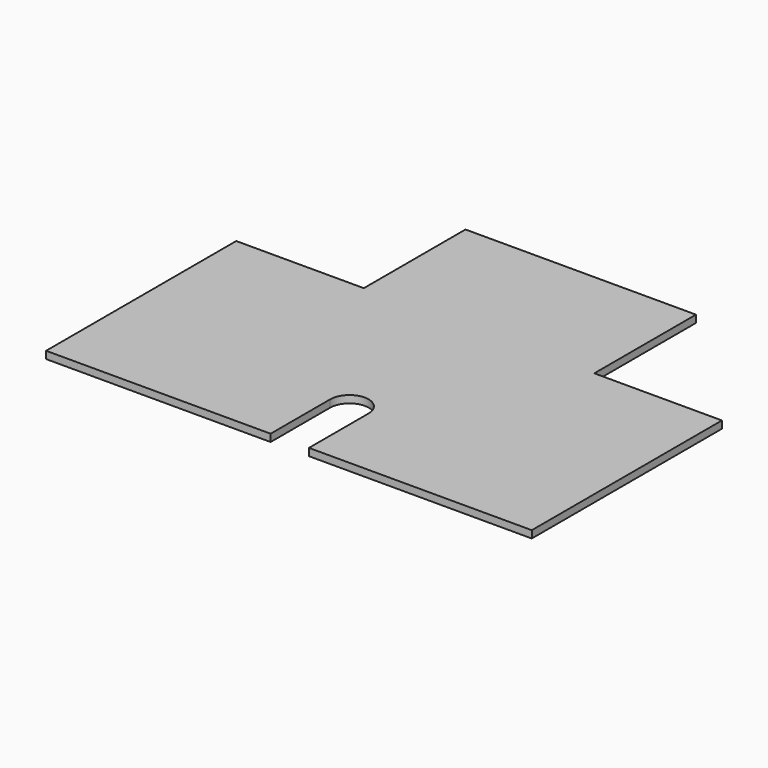
from build123d import *

# Parameters (mm, degrees)
F1_DEPTH = 1.27


with BuildPart() as f1:
    # F0 (on Top) → F1 (new body)
    with BuildSketch(Plane.XY):
        with BuildLine():
            Line((-42.207494, 18.929835), (-42.207494, -22.231424))
            Line((-42.207494, -22.231424), (-3.320253, -22.231424))
            Line((-3.320253, -22.231424), (-3.320253, -9.324279))
            ThreePointArc((-3.320253, -9.324279), (0, -6.004025), (3.320253, -9.324279))
            Line((3.320253, -9.324279), (3.320253, -22.231424))
            Line((3.320253, -22.231424), (41.91, -22.231424))
            Line((41.91, -22.231424), (41.91, 18.929835))
            Line((41.91, 18.929835), (19.809458, 18.929835))
            Line((19.809458, 18.929835), (19.809458, 40.937474))
            Line((19.809458, 40.937474), (-20.106953, 40.937474))
            Line((-20.106953, 40.937474), (-20.106953, 18.929835))
            Line((-20.106953, 18.929835), (-42.207494, 18.929835))
        make_face()
    extrude(amount=F1_DEPTH)


solid = f1.part
